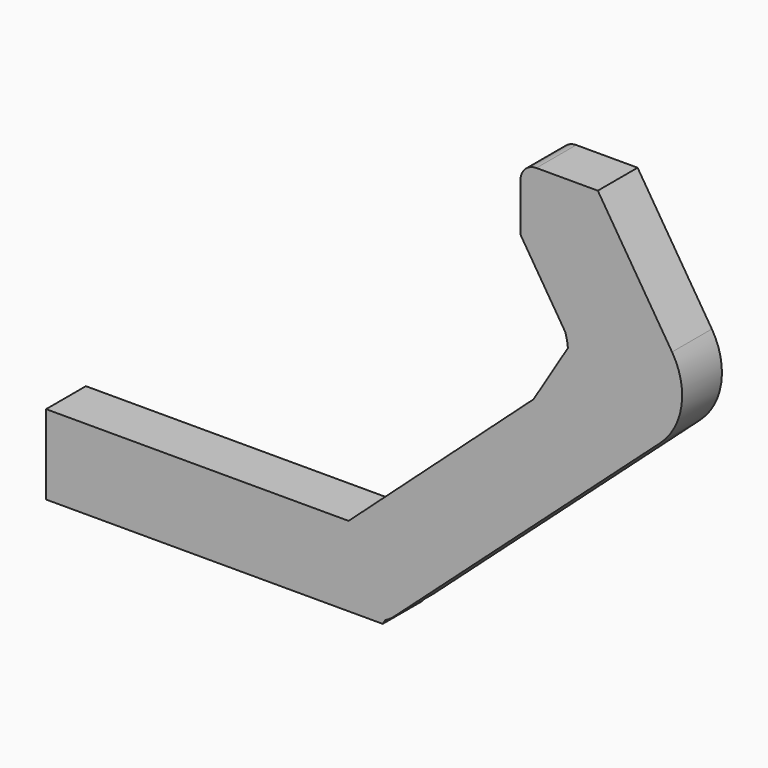
from build123d import *

# Parameters (mm, degrees)
F1_DEPTH = 12.5


with BuildPart() as f1:
    # F0 (on Front) → F1 (new body, symmetric)
    with BuildSketch(Plane.XZ):
        with BuildLine():
            Line((-176.51328, 50.132447), (-269.451721, -33.897818))
            Line((-269.451721, -33.897818), (-421.500087, -33.897818))
            Line((-421.500087, -33.897818), (-421.500087, -73.897818))
            Line((-421.500087, -73.897818), (-269.451721, -73.897818))
            Line((-269.451721, -73.897818), (-259.965033, -73.897818))
            ThreePointArc((-259.965033, -73.897818), (-255.357949, -73.359955), (-250.998663, -71.775296))
            Line((-250.998663, -71.775296), (-176.51328, 50.132447))
        make_face()
        with BuildLine():
            Line((-159.247346, 78.391026), (-176.51328, 50.132447))
            Line((-176.51328, 50.132447), (-167.435312, 58.340289))
            ThreePointArc((-167.435312, 58.340289), (-161.057324, 67.432955), (-159.247346, 78.391026))
        make_face()
        with BuildLine():
            Line((-167.435312, 58.340289), (-176.51328, 50.132447))
            Line((-176.51328, 50.132447), (-250.998663, -71.775296))
            ThreePointArc((-250.998663, -71.775296), (-248.694936, -70.420073), (-246.592487, -68.769772))
            Line((-246.592487, -68.769772), (-112.761636, 51.568095))
            ThreePointArc((-112.761636, 51.568095), (-102.1411, 71.559806), (-106.901663, 93.691261))
            Line((-106.901663, 93.691261), (-144.207445, 152.934073))
            Line((-144.207445, 152.934073), (-144.207445, 120.826926))
            Line((-144.207445, 120.826926), (-183.07229, 120.826926))
            Line((-183.07229, 120.826926), (-160.609976, 85.15603))
            ThreePointArc((-160.609976, 85.15603), (-159.694116, 81.820771), (-159.247346, 78.391026))
            ThreePointArc((-159.247346, 78.391026), (-161.057324, 67.432955), (-167.435312, 58.340289))
        make_face()
        with BuildLine():
            Line((-252.29552, -73.897818), (-250.998663, -71.775296))
            ThreePointArc((-250.998663, -71.775296), (-255.357949, -73.359955), (-259.965033, -73.897818))
            Line((-259.965033, -73.897818), (-252.29552, -73.897818))
        make_face()
        with BuildLine():
            Line((-183.07229, 144.934073), (-183.07229, 120.826926))
            Line((-183.07229, 120.826926), (-144.207445, 120.826926))
            Line((-144.207445, 120.826926), (-144.207445, 152.934073))
            Line((-144.207445, 152.934073), (-175.07229, 152.934073))
            ThreePointArc((-175.07229, 152.934073), (-180.729144, 150.590927), (-183.07229, 144.934073))
        make_face()
    extrude(amount=F1_DEPTH, both=True)


solid = f1.part
